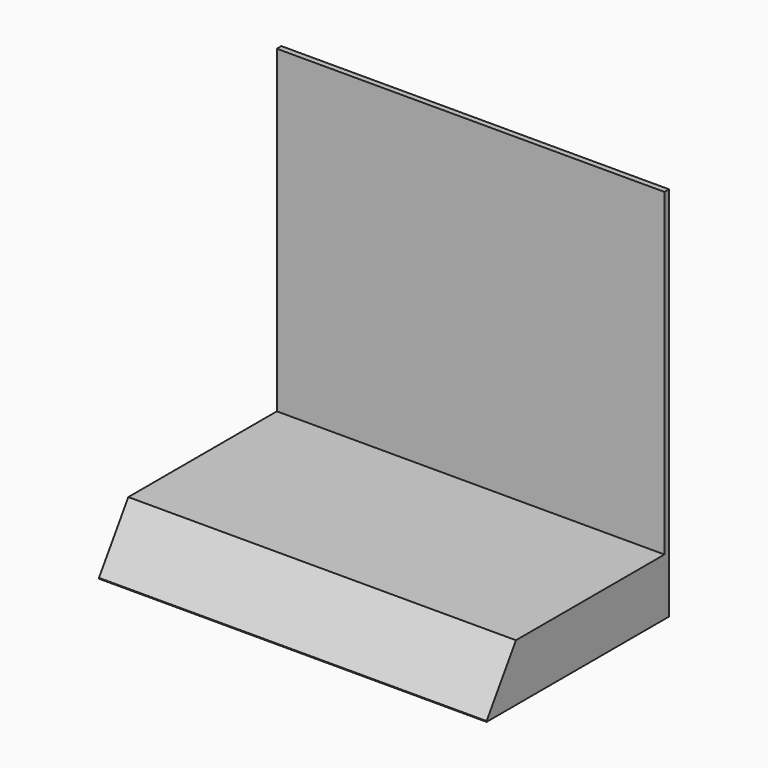
from build123d import *

# Parameters (mm, degrees)
F0_W     = 431.8
F0_H     = 355.6
F1_DEPTH = 6.35
F2_W     = 431.8
F2_H     = 63.5
F3_DEPTH = 254
F5_DEPTH = 431.801


with BuildPart() as f1:
    # F0 (on Front) → F1 (new body)
    with BuildSketch(Plane.XZ):
        with Locations((-215.9, 177.8)):
            Rectangle(F0_W, F0_H)
    extrude(amount=F1_DEPTH)

    # F2 (on Front) → F3 (join)
    with BuildSketch(Plane.XZ):
        with Locations((-215.9, -31.75)):
            Rectangle(F2_W, F2_H)
    extrude(amount=F3_DEPTH)

    # F4 (on Right) → F5 (cut, through all)
    with BuildSketch(Plane.YZ):
        Polygon((-330.205292, 41.198432), (-255.739987, -65.315232), (-172.791287, 61.935604), align=None)
    extrude(amount=-F5_DEPTH, mode=Mode.SUBTRACT)


solid = f1.part
